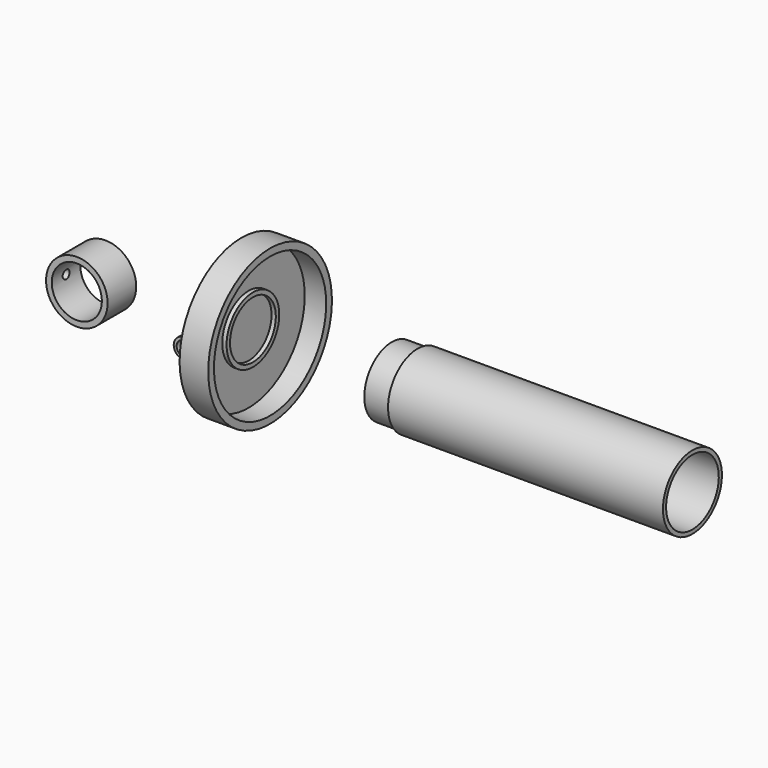
from build123d import *

# Parameters (mm, degrees)
F0_W      = 210
F0_H      = 2.75
F2_R      = 25.75
F2_R_2    = 24
F3_DEPTH  = 18
F4_W      = 3
F4_H      = 3
F7_R      = 7
F7_R_2    = 5
F8_DEPTH  = 15
F9_R      = 5
F10_DEPTH = 26
F11_R     = 21.5
F11_R_2   = 17.5
F12_DEPTH = 25
F14_R     = 3
F15_DEPTH = 6


with BuildPart() as f1:
    # F0 (on Front) → F1 (revolve)
    with BuildSketch(Plane.XZ):
        with Locations((105, 24.375)):
            Rectangle(F0_W, F0_H)
    revolve(axis=Axis((50, 0, 0), (1, 0, 0)))

    # F2 (on face) → F3 (cut)
    with BuildSketch(Plane(origin=(0, 0, 0), x_dir=(0, -1, 0), z_dir=(-1, 0, 0))):
        Circle(F2_R)
        Circle(F2_R_2, mode=Mode.SUBTRACT)
    extrude(amount=-F3_DEPTH, mode=Mode.SUBTRACT)


with BuildPart() as f5:
    # F4 (on Front) → F5 (revolve)
    with BuildSketch(Plane.XZ):
        Polygon((-125, 0), (-100, 0), (-100, 20), (-100, 23), (-100, 26), (-105, 26), (-120, 26), (-125, 10), (-125, 3), align=None)
        with Locations((-98.5, 21.5)):
            Rectangle(F4_W, F4_H)
        with Locations((-126.5, 1.5)):
            Rectangle(F4_W, F4_H)
        Polygon((-105, 26), (-100, 26), (-100, 49), (-85, 49), (-85, 54), (-105, 54), align=None)
    revolve(axis=Axis((-112.5, 0, 0), (-1, 0, 0)))

    # F7 (on offset) → F8 (join)
    with BuildSketch(Plane.XZ.offset(26)):
        with Locations((-112.5, 0)):
            Circle(F7_R)
        with Locations((-112.5, 0)):
            Circle(F7_R_2, mode=Mode.SUBTRACT)
    extrude(amount=F8_DEPTH)

    # F9 (on offset) → F10 (cut)
    with BuildSketch(Plane.XZ.offset(26)):
        with Locations((-112.5, 0)):
            Circle(F9_R)
    extrude(amount=-F10_DEPTH, mode=Mode.SUBTRACT)


with BuildPart() as f12:
    # F11 (on Front) → F12 (new body)
    with BuildSketch(Plane.XZ):
        with Locations((-200, 0)):
            Circle(F11_R)
        with Locations((-200, 0)):
            Circle(F11_R_2, mode=Mode.SUBTRACT)
    extrude(amount=F12_DEPTH)

    # F14 (on offset) → F15 (cut)
    with BuildSketch(Plane.YZ.offset(-221.5)):
        with Locations((-12.5, 0)):
            Circle(F14_R)
    extrude(amount=F15_DEPTH, mode=Mode.SUBTRACT)


solid = Compound([f1.part, f5.part, f12.part])
